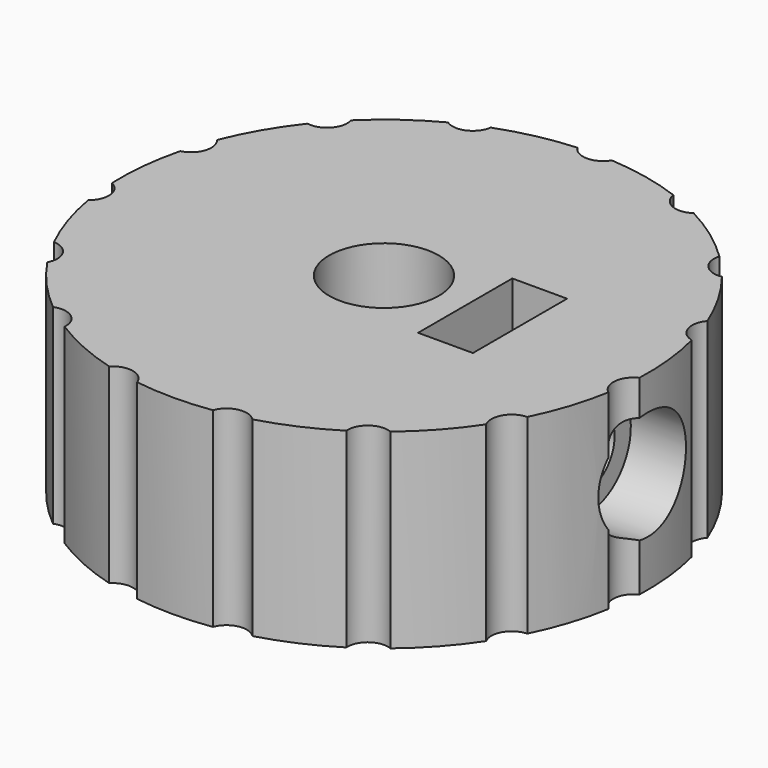
from build123d import *

# Parameters (mm, degrees)
PAD007_DEPTH         = 2.7
CYLINDER1020_R       = 2.7
CYLINDER1020_DEPTH   = 10
CYLINDER1018_R       = 1.7
CYLINDER1018_DEPTH   = 10
CLONE023_PITCH_ANGLE = 90
CYLINDER1014_R       = 2.7
CYLINDER1014_DEPTH   = 100
CYLINDER1016_R       = 1
CYLINDER1016_DEPTH   = 10
ARRAY_COUNT          = 15
CYLINDER_R           = 13
CYLINDER_DEPTH       = 9.4


with BuildPart() as clone_of_m3nuthousingmaster001:
    # Sketch008 → Pad007 (new body)
    with BuildSketch(Plane(origin=(65, 30, 1.5), x_dir=(0, 0, 1), z_dir=(-1, 0, 0))):
        Polygon((0, 0), (1.674316, 2.9), (21.674316, 2.9), (21.674316, -2.9), (1.674316, -2.9), align=None)
    extrude(amount=PAD007_DEPTH)


with BuildPart() as clone_of_m3nuthousingmaster001_1:
    # Clone010 placement: moved
    add(clone_of_m3nuthousingmaster001.part.moved(Location((-58.3, -30, 0))))


with BuildPart() as cylinder1015:
    # Cylinder1020 → Cylinder1020 (new body)
    with BuildSketch(Plane.XY.offset(10)):
        Circle(CYLINDER1020_R)
    extrude(amount=CYLINDER1020_DEPTH)


with BuildPart() as clone_of_m3bolthead:
    # Cylinder1018 → Cylinder1018 (new body)
    with BuildSketch(Plane.XY):
        Circle(CYLINDER1018_R)
    extrude(amount=CYLINDER1018_DEPTH)

    # Fusion024: union Cylinder1015
    add(cylinder1015.part)


with BuildPart() as clone_of_m3bolthead_1:
    # Clone023 pitch: moved
    add(clone_of_m3bolthead.part.rotate(Axis((0, 0, 0), (0, 1, 0)), CLONE023_PITCH_ANGLE))


with BuildPart() as clone_of_m3bolthead_2:
    # Clone023 placement: moved
    add(clone_of_m3bolthead_1.part.moved(Location((0, 0, 5))))


with BuildPart() as fusion:
    # Cylinder1014 → Cylinder1014 (new body)
    with BuildSketch(Plane.XY):
        Circle(CYLINDER1014_R)
    extrude(amount=CYLINDER1014_DEPTH)

    # Fusion: union Clone of M3NutHousingMaster001, Clone of M3BoltHead
    add(clone_of_m3nuthousingmaster001_1.part)
    add(clone_of_m3bolthead_2.part)


with BuildPart() as array:
    # Cylinder1016 → Cylinder1016 (new body)
    with BuildSketch(Plane(origin=(0, 13.5, 0), x_dir=(1, 0, 0), z_dir=(0, 0, 1))):
        Circle(CYLINDER1016_R)
    extrude(amount=CYLINDER1016_DEPTH)

    # Array: Array ×15 about axis
    array_axis = Axis((0, 0, 0), (0, 0, 1))


with BuildPart() as array_1:
    add(array.part)
    for i in range(1, ARRAY_COUNT):
        add(array.part.rotate(array_axis, i * 360 / ARRAY_COUNT))


with BuildPart() as wheel:
    # Cylinder → Cylinder (new body)
    with BuildSketch(Plane.XY):
        Circle(CYLINDER_R)
    extrude(amount=CYLINDER_DEPTH)

    # Cut013: cut Array
    add(array_1.part, mode=Mode.SUBTRACT)

    # Cut019: cut Fusion
    add(fusion.part, mode=Mode.SUBTRACT)


solid = wheel.part
